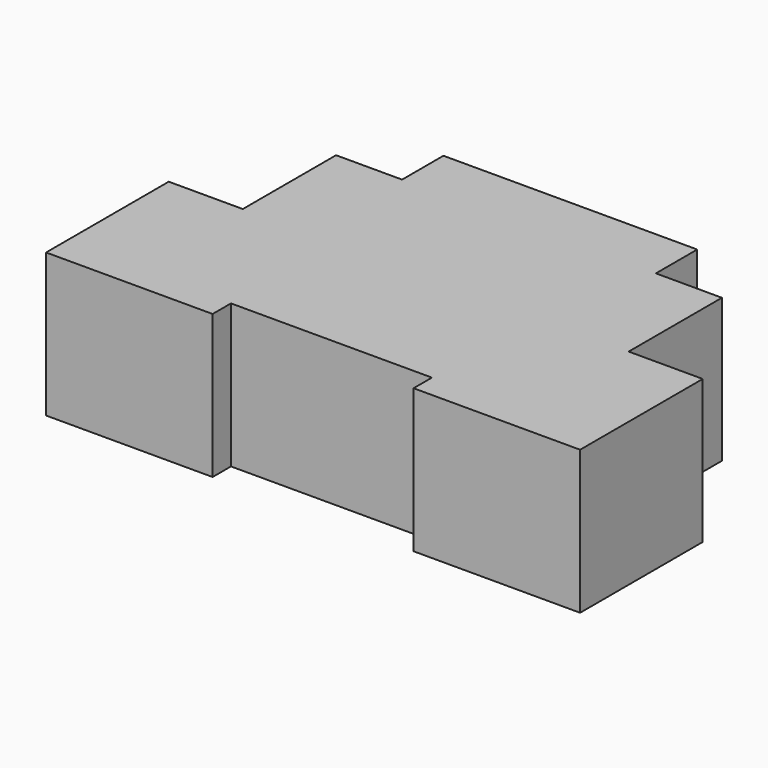
from build123d import *

# Parameters (mm, degrees)
F1_DEPTH = 12.5


with BuildPart() as f1:
    # F0 (on Top) → F1 (new body, symmetric)
    with BuildSketch(Plane.XY):
        Polygon((-64, 2.403244), (-64, -24.296756), (-35, -24.296756), (-35, -20.296756), (-17.5, -20.296756), (-17.5, 31.703244), (-39.6, 31.703244), (-39.6, 22.703244), (-51.1, 22.703244), (-51.1, 2.403244), align=None)
        Polygon((-17.5, 31.703244), (-17.5, -20.296756), (0, -20.296756), (0, -24.296756), (29, -24.296756), (29, 2.403244), (16.1, 2.403244), (16.1, 22.703244), (4.6, 22.703244), (4.6, 31.703244), align=None)
    extrude(amount=F1_DEPTH, both=True)


solid = f1.part
